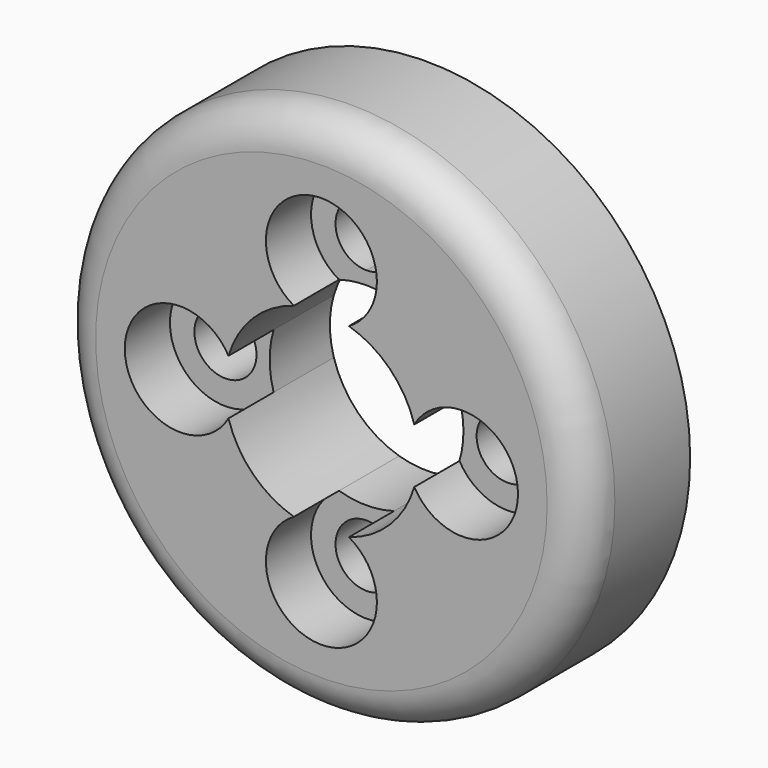
from build123d import *

# Parameters (mm, degrees)
F0_R      = 14
F1_DEPTH  = 7
F0_R_2    = 1.65
F2_DEPTH  = 4
F2_FACE_R = 1.65
F3_DEPTH  = 25
F5_R      = 2


with BuildPart() as f1:
    # F0 (on Front) → F1 (new body)
    with BuildSketch(Plane.XZ):
        Circle(F0_R)
        with BuildLine():
            ThreePointArc((1.462414, 4.938), (3.6416, 3.6416), (4.938, 1.462414))
            ThreePointArc((4.938, 1.462414), (8.256505, 2.851351), (10.45, 0))
            ThreePointArc((10.45, 0), (8.256505, -2.851351), (4.938, -1.462414))
            ThreePointArc((4.938, -1.462414), (3.6416, -3.6416), (1.462414, -4.938))
            ThreePointArc((1.462414, -4.938), (2.551139, -6.018721), (2.95, -7.5))
            ThreePointArc((2.95, -7.5), (-1.481279, -10.051139), (-1.462414, -4.938))
            ThreePointArc((-1.462414, -4.938), (-3.6416, -3.6416), (-4.938, -1.462414))
            ThreePointArc((-4.938, -1.462414), (-10.45, 0), (-4.938, 1.462414))
            ThreePointArc((-4.938, 1.462414), (-3.6416, 3.6416), (-1.462414, 4.938))
            ThreePointArc((-1.462414, 4.938), (-1.481279, 10.051139), (2.95, 7.5))
            ThreePointArc((2.95, 7.5), (2.551139, 6.018721), (1.462414, 4.938))
        make_face(mode=Mode.SUBTRACT)
    extrude(amount=F1_DEPTH)

    # F0 (on Front) → F2 (join)
    with BuildSketch(Plane.XZ):
        with BuildLine():
            ThreePointArc((-4.938, 1.462414), (-10.45, 0), (-4.938, -1.462414))
            ThreePointArc((-4.938, -1.462414), (-5.15, 0), (-4.938, 1.462414))
        make_face()
        with Locations((-7.5, 0)):
            Circle(F0_R_2, mode=Mode.SUBTRACT)
        with BuildLine():
            ThreePointArc((2.95, -7.5), (2.551139, -6.018721), (1.462414, -4.938))
            ThreePointArc((1.462414, -4.938), (0, -5.15), (-1.462414, -4.938))
            ThreePointArc((-1.462414, -4.938), (-1.481279, -10.051139), (2.95, -7.5))
        make_face()
        with Locations((0, -7.5)):
            Circle(F0_R_2, mode=Mode.SUBTRACT)
        with BuildLine():
            ThreePointArc((4.938, 1.462414), (5.096724, 0.73885), (5.15, 0))
            ThreePointArc((5.15, 0), (5.096724, -0.73885), (4.938, -1.462414))
            ThreePointArc((4.938, -1.462414), (8.256505, -2.851351), (10.45, 0))
            ThreePointArc((10.45, 0), (8.256505, 2.851351), (4.938, 1.462414))
        make_face()
        with Locations((7.5, 0)):
            Circle(F0_R_2, mode=Mode.SUBTRACT)
        with BuildLine():
            ThreePointArc((0, 5.15), (0.73885, 5.096724), (1.462414, 4.938))
            ThreePointArc((1.462414, 4.938), (2.551139, 6.018721), (2.95, 7.5))
            ThreePointArc((2.95, 7.5), (-1.481279, 10.051139), (-1.462414, 4.938))
            ThreePointArc((-1.462414, 4.938), (-0.73885, 5.096724), (0, 5.15))
        make_face()
        with BuildLine():
            ThreePointArc((1.65, 7.5), (1.166726, 6.333274), (0, 5.85))
            ThreePointArc((0, 5.85), (-1.166726, 8.666726), (1.65, 7.5))
        make_face(mode=Mode.SUBTRACT)
    extrude(amount=F2_DEPTH)

    # F5
    f5_edges = [f1.edges().sort_by_distance(p)[0] for p in [
        (-14, -7, 0),
    ]]
    fillet(f5_edges, radius=F5_R)


with BuildPart() as f3:
    # F0 (on Front) + F2_face (on face) → F3 (new body)
    with BuildSketch(Plane.XZ):
        with Locations((-7.5, 0)):
            Circle(F0_R_2)
        with BuildLine():
            ThreePointArc((-4.938, 1.462414), (-10.45, 0), (-4.938, -1.462414))
            ThreePointArc((-4.938, -1.462414), (-5.15, 0), (-4.938, 1.462414))
        make_face()
        with Locations((-7.5, 0)):
            Circle(F0_R_2, mode=Mode.SUBTRACT)
    with BuildSketch(Plane(origin=(-7.676847, -4, 0), x_dir=(1, 0, 0), z_dir=(0, -1, 0))):
        with BuildLine():
            ThreePointArc((2.738847, -1.462414), (2.526847, 0), (2.738847, 1.462414))
            ThreePointArc((2.738847, 1.462414), (-2.773153, 0), (2.738847, -1.462414))
        make_face()
        with Locations((0.176847, 0)):
            Circle(F2_FACE_R, mode=Mode.SUBTRACT)
    extrude(amount=F3_DEPTH)


solid = f1.part
